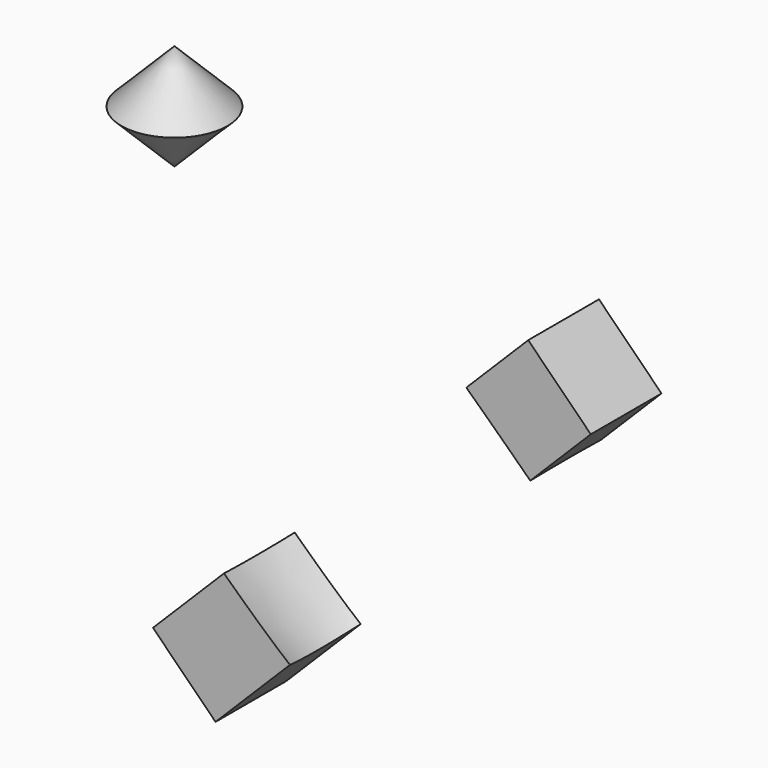
from build123d import *

# Parameters (mm, degrees)
F5_DEPTH = 12.5


with BuildPart() as f1:
    # F0 (on Front) → F1 (revolve)
    with BuildSketch(Plane.XZ):
        Polygon((0, -70.710678), (0, 70.710678), (-70.710678, 0), align=None)
    revolve(axis=Axis((0, 0, -1.175915), (0, 0, -1)))


with BuildPart() as f3:
    # F2 (on Front) → F3 (revolve)
    with BuildSketch(Plane.XZ):
        Polygon((-60, 55.710678), (-45, 70.710678), (-60, 85.710678), align=None)
    revolve(axis=Axis((-60, 0, 69.177093), (0, 0, 1)))


with BuildPart() as f5:
    # F4 (on Front) → F5 (new body, symmetric)
    with BuildSketch(Plane.XZ):
        Polygon((67.67767, 35.710678), (50, 53.388348), (-56.066017, -52.67767), (-38.388348, -70.355339), align=None)
    extrude(amount=F5_DEPTH, both=True)

    # F6: cut F1
    add(f1.part, mode=Mode.SUBTRACT)


solid = Compound([f3.part, f5.part])
